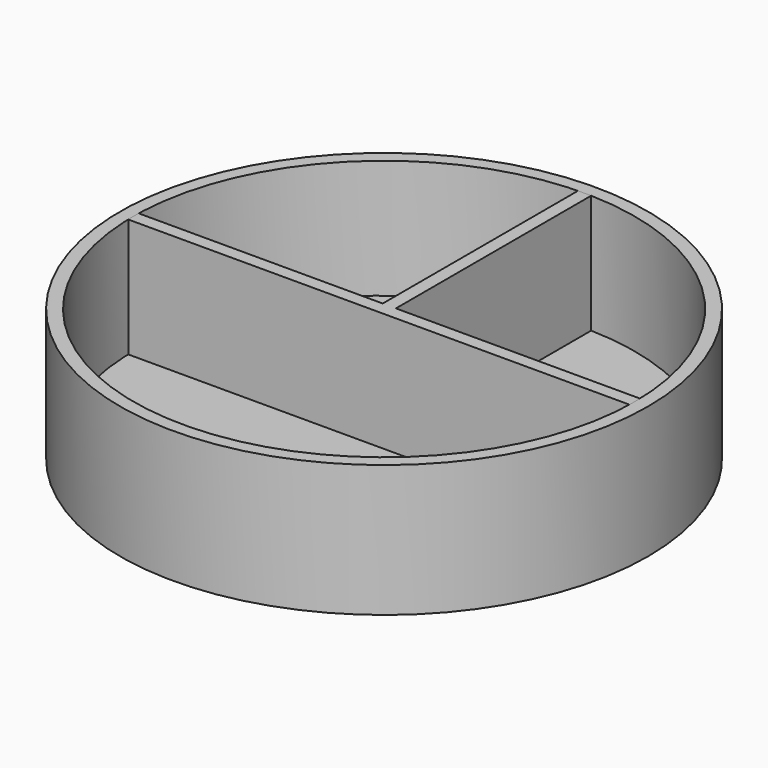
from build123d import *

# Parameters (mm, degrees)
F0_R     = 40
F1_DEPTH = 20
F2_R     = 38
F3_DEPTH = 18
F5_DEPTH = 20


with BuildPart() as f1:
    # F0 (on Top) → F1 (new body)
    with BuildSketch(Plane.XY):
        Circle(F0_R)
    extrude(amount=F1_DEPTH)

    # F2 (on face) → F3 (cut)
    with BuildSketch(Plane.XY.offset(20)):
        Circle(F2_R)
    extrude(amount=-F3_DEPTH, mode=Mode.SUBTRACT)


with BuildPart() as f5:
    # F4 (on face) → F5 (new body)
    with BuildSketch(Plane.XY.offset(20)):
        with BuildLine():
            Line((-1.0065800868, 37.986666036), (-1.0065800868, 1))
            Line((-1.0065800868, 1), (0.9934199132, 1))
            Line((0.9934199132, 1), (0.9934199132, 37.9870124763))
            Line((0.9934199132, 37.9870124763), (-0.9934199132, 37.9870124763))
            ThreePointArc((-0.9934199132, 37.9870124763), (-1.000000015, 37.9868398261), (-1.0065800868, 37.986666036))
        make_face()
        with BuildLine():
            ThreePointArc((-37.9868398264, 1), (-37.9967098142, 0.5000432957), (-38, 0))
            ThreePointArc((-38, 0), (-37.9967098142, -0.5000432957), (-37.9868398264, -1))
            Line((-37.9868398264, -1), (37.9868398264, -1))
            Line((37.9868398264, -1), (37.9868398264, 1))
            Line((37.9868398264, 1), (0.9934199132, 1))
            Line((0.9934199132, 1), (-1.0065800868, 1))
            Line((-1.0065800868, 1), (-37.9868398264, 1))
        make_face()
    extrude(amount=-F5_DEPTH)


solid = Compound([f1.part, f5.part])
